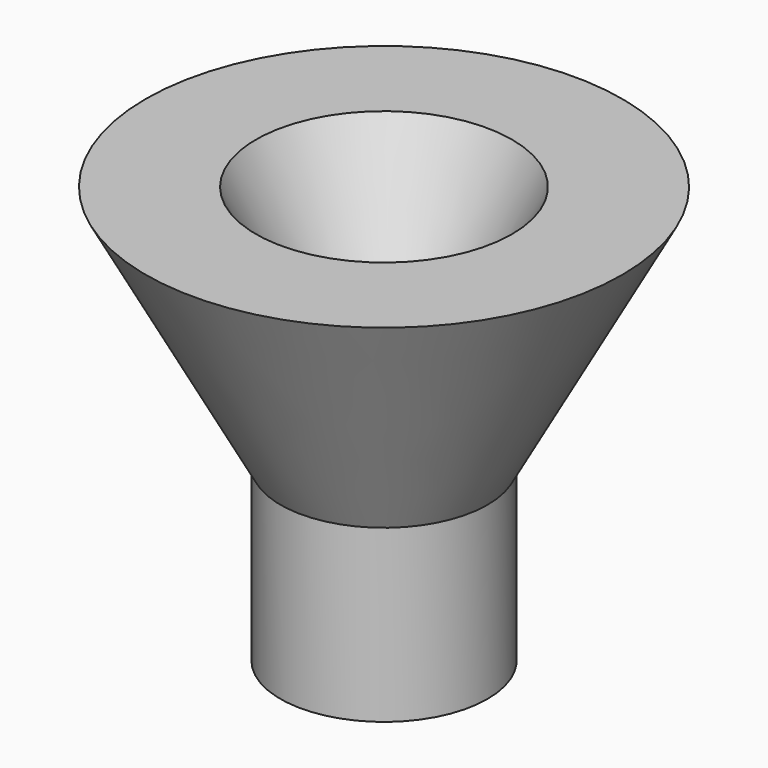
from build123d import *

# Parameters (mm, degrees)
F2_R     = 16.850868
F3_DEPTH = 50.8


with BuildPart() as f1:
    # F0 (on Front) → F1 (revolve)
    with BuildSketch(Plane.XZ):
        Polygon((31.793952, 49.934644), (5.824116, 0), (5.824116, -34.658272), (26.829127, -34.658272), (26.829127, 0), (54.135647, 49.934644), align=None)
    revolve(axis=Axis((5.824116, 0, -17.329136), (0, 0, -1)))

    # F2 (on face) → F3 (cut)
    with BuildSketch(Plane(origin=(0, 0, -34.658272), x_dir=(1, 0, 0), z_dir=(0, 0, -1))):
        with Locations((5.824116, 0)):
            Circle(F2_R)
    extrude(amount=-F3_DEPTH, mode=Mode.SUBTRACT)


solid = f1.part
